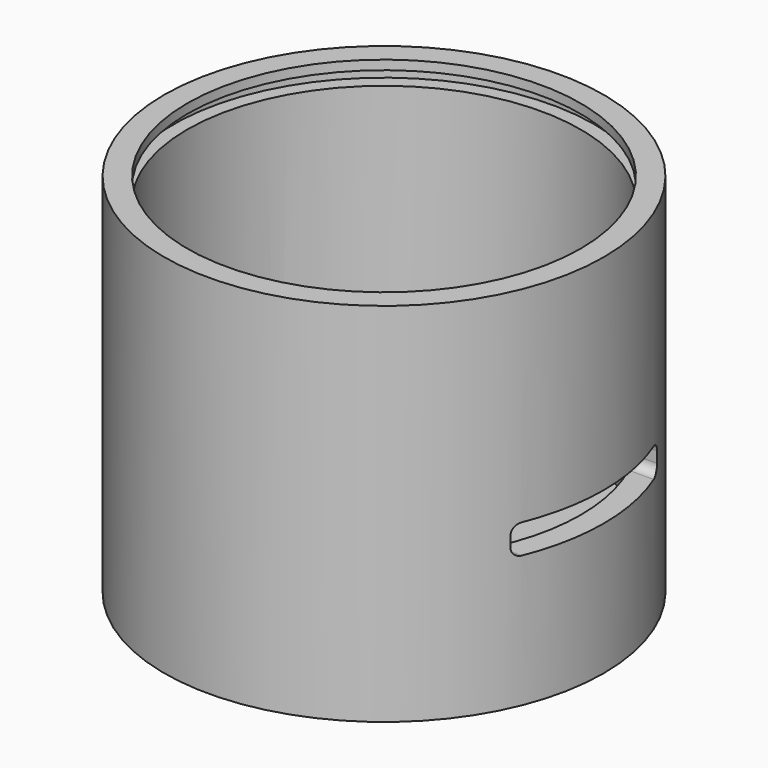
from build123d import *

# Parameters (mm, degrees)
F3_DEPTH      = 12.001
F3_DEPTH_BACK = 12.001


with BuildPart() as f1:
    # F0 (on Front) → F1 (revolve)
    with BuildSketch(Plane.XZ):
        Polygon((2.6797, 3), (2.6797, 0), (12, 0), (12, 20), (10.742, 20), (10.742, 19.492), (11.492, 19.492), (11.492, 18.742), (10.742, 18.742), (10.742, 3), align=None)
    revolve(axis=Axis((0, 0, 7.5389798731), (0, 0, 1)))

    # F2 (on Right) → F3 (cut, two sides)
    with BuildSketch(Plane.YZ) as f3_sk:
        with BuildLine():
            ThreePointArc((5, 8.3), (4.8535533906, 8.6535533906), (4.5, 8.8))
            Line((4.5, 8.8), (-4.5, 8.8))
            ThreePointArc((-4.5, 8.8), (-4.8535533906, 8.6535533906), (-5, 8.3))
            Line((-5, 8.3), (-5, 7.7))
            ThreePointArc((-5, 7.7), (-4.8535533906, 7.3464466094), (-4.5, 7.2))
            Line((-4.5, 7.2), (4.5, 7.2))
            ThreePointArc((4.5, 7.2), (4.8535533906, 7.3464466094), (5, 7.7))
            Line((5, 7.7), (5, 8.3))
        make_face()
    extrude(amount=-F3_DEPTH, mode=Mode.SUBTRACT)
    extrude(f3_sk.sketch, amount=F3_DEPTH_BACK, mode=Mode.SUBTRACT)


solid = f1.part
